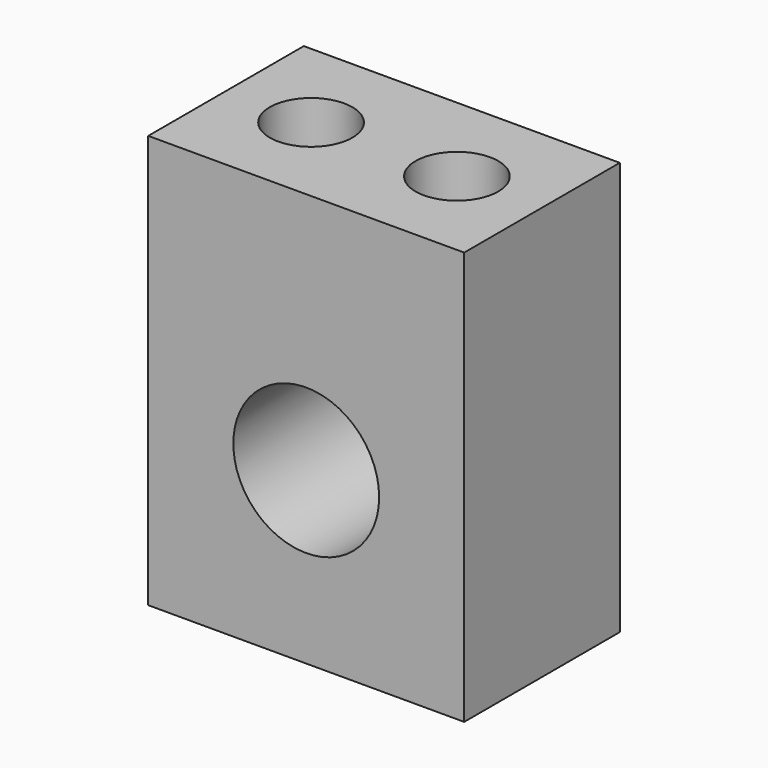
from build123d import *

# Parameters (mm, degrees)
F0_W     = 13
F0_H     = 17
F1_DEPTH = 8
F2_R     = 1.7
F3_DEPTH = 6
F4_R     = 3
F5_DEPTH = 25


with BuildPart() as f1:
    # F0 (on Front) → F1 (new body)
    with BuildSketch(Plane.XZ):
        with Locations((6.5, 8.5)):
            Rectangle(F0_W, F0_H)
    extrude(amount=F1_DEPTH)

    # F2 (on face) → F3 (cut)
    with BuildSketch(Plane.XY.offset(17)):
        with Locations((3.5, -4)):
            Circle(F2_R)
        with Locations((9.5, -4)):
            Circle(F2_R)
    extrude(amount=-F3_DEPTH, mode=Mode.SUBTRACT)

    # F4 (on face) → F5 (cut)
    with BuildSketch(Plane.XZ.offset(8)):
        with Locations((6.5, 7)):
            Circle(F4_R)
    extrude(amount=-F5_DEPTH, mode=Mode.SUBTRACT)


solid = f1.part
